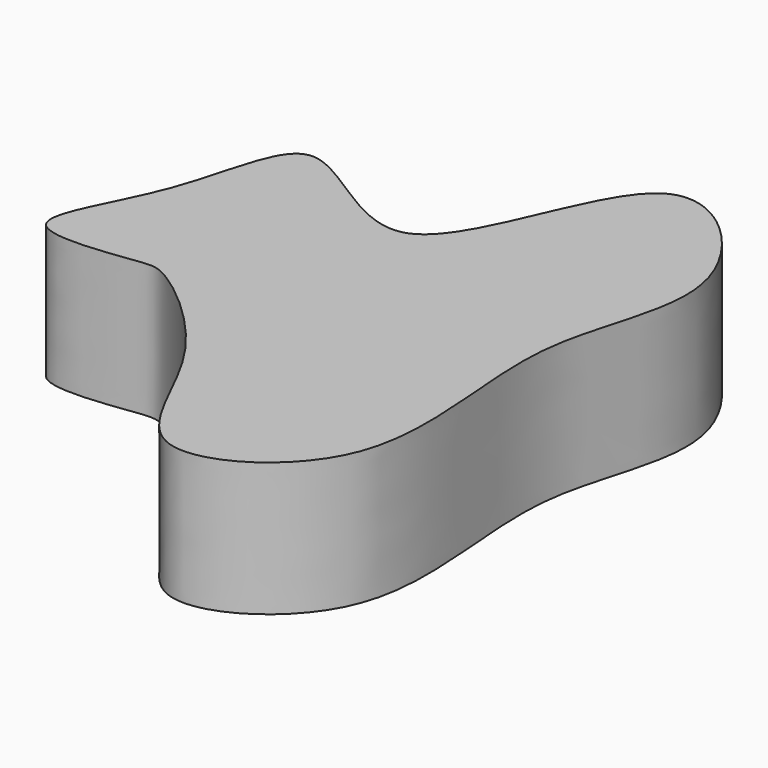
from build123d import *

# Parameters (mm, degrees)
F1_DEPTH = 25.4


with BuildPart() as f1:
    # F0 (on Top) → F1 (new body)
    with BuildSketch(Plane.XY):
        with BuildLine():
            add(Edge.make_bspline(
                [(-31.3213691115, 5.9884195216), (-27.6647802091, 15.8280727247), (-26.0681199479, 39.0654915766), (11.3780908709, -2.34387548), (21.4404050286, 67.5581490312), (58.1252000365, 31.0910423878), (38.2203584339, 1.041201811), (52.7990595979, -45.2914752326), (15.6911571652, -67.6217306328), (7.4643159821, -33.7669327169), (-14.9772350801, -15.2032054913), (-19.8137545291, -15.3440489926), (-46.8867966863, -19.6278589397), (-34.901255838, -3.6448328986), (-31.3213691115, 5.9884195216)],
                knots=[0, 0, 0, 0, 0.0787192942, 0.1656103049, 0.2700692173, 0.3558767095, 0.450446037, 0.5591070386, 0.6438050711, 0.7303909555, 0.8156502986, 0.8547009295, 0.9229319554, 1, 1, 1, 1], degree=3))
        make_face()
    extrude(amount=F1_DEPTH)


solid = f1.part
